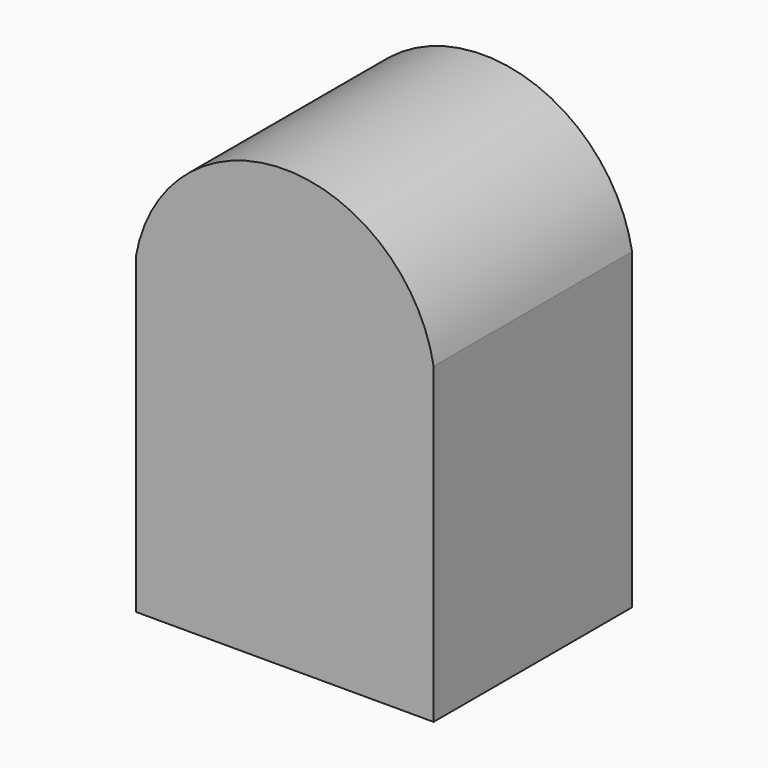
from build123d import *

# Parameters (mm, degrees)
F0_W     = 53.0352033675
F0_H     = 55.7784009725
F1_DEPTH = 44.196


with BuildPart() as f1:
    # F0 (on Front) → F1 (new body)
    with BuildSketch(Plane.XZ):
        with BuildLine():
            ThreePointArc((28.1940028071, 17.0688014477), (1.6764011234, 39.3347346579), (-24.8412005603, 17.0688014477))
            Line((-24.8412005603, 17.0688014477), (28.1940028071, 17.0688014477))
        make_face()
        with Locations((1.6764011234, -10.8203990385)):
            Rectangle(F0_W, F0_H)
    extrude(amount=F1_DEPTH)


solid = f1.part
